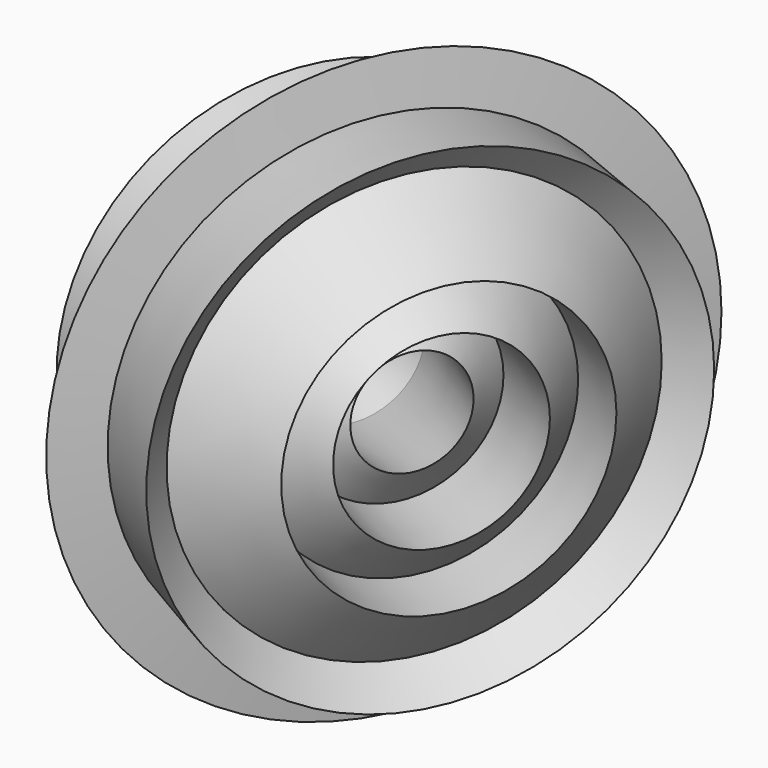
from build123d import *


with BuildPart() as f1:
    # F0 (on Top) → F1 (revolve)
    with BuildSketch(Plane.XY):
        Polygon((-60.0998973583, 46.7795197551), (-72.1323950326, 40.3142970685), (-69.0793743467, 24.5104191058), (-76.8017223214, 8.5269518827), (-57.2264654671, 4.75557043), (-23.1044580338, -17.3339407261), (-25.4391207469, -1.7096485313), (-0.2965903019, -13.3829686161), (-8.1985270714, 8.5269518827), (11.5563223029, 0.0862450038), (2.3972527946, 30.7960522991), (16.2256458665, 35.8245585744), (-8.9168841129, 46.7795197551), (-2.9904315358, 62.9425746087), (-38.5491563117, 51.9876171533), (-50.7612427806, 61.5058605258), align=None)
    revolve(axis=Axis((-58.9363127947, -19.680627156, 0), (0.8953530625, -0.4453570404, 0)))


solid = f1.part
